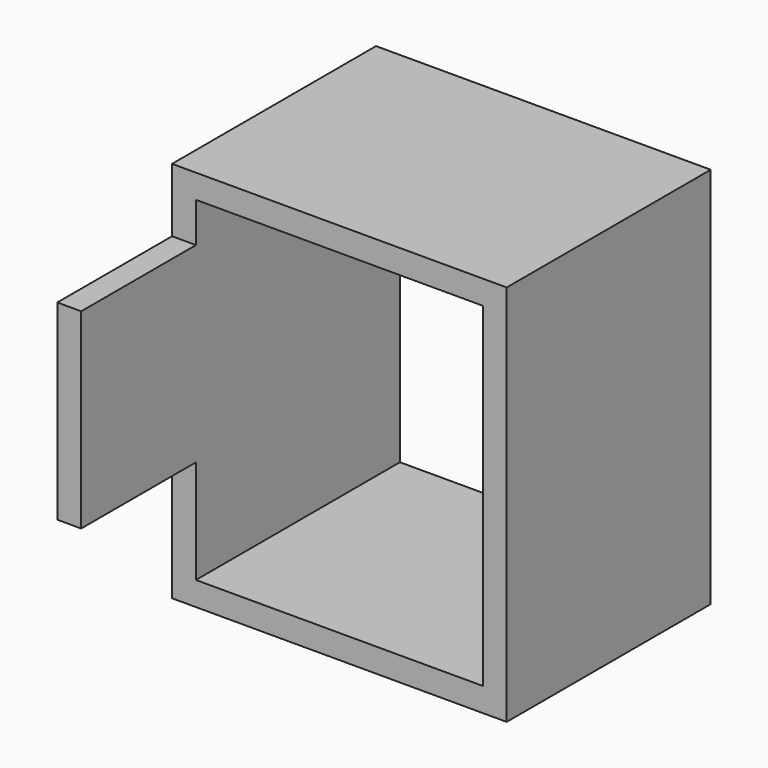
from build123d import *

# Parameters (mm, degrees)
BOX095_W     = 3
BOX095_H     = 32
BOX095_DEPTH = 42
BOX094_W     = 3
BOX094_H     = 32
BOX094_DEPTH = 42
BOX093_W     = 3
BOX093_H     = 32
BOX093_DEPTH = 42
BOX092_W     = 3
BOX092_H     = 32
BOX092_DEPTH = 42
BOX091_W     = 3
BOX091_H     = 18
BOX091_DEPTH = 24


with BuildPart() as box095:
    # Box095 → Box095 (new body)
    with BuildSketch(Plane(origin=(99, 8, 67), x_dir=(1, 0, 0), z_dir=(0, 0, 1))):
        with Locations((1.5, 16)):
            Rectangle(BOX095_W, BOX095_H)
    extrude(amount=BOX095_DEPTH)


with BuildPart() as box094:
    # Box094 → Box094 (new body)
    with BuildSketch(Plane(origin=(141, 8, 109), x_dir=(0, 0, 1), z_dir=(-1, 0, 0))):
        with Locations((1.5, 16)):
            Rectangle(BOX094_W, BOX094_H)
    extrude(amount=BOX094_DEPTH)


with BuildPart() as box093:
    # Box093 → Box093 (new body)
    with BuildSketch(Plane(origin=(138, 8, 67), x_dir=(1, 0, 0), z_dir=(0, 0, 1))):
        with Locations((1.5, 16)):
            Rectangle(BOX093_W, BOX093_H)
    extrude(amount=BOX093_DEPTH)


with BuildPart() as box092:
    # Box092 → Box092 (new body)
    with BuildSketch(Plane(origin=(141, 8, 64), x_dir=(0, 0, 1), z_dir=(-1, 0, 0))):
        with Locations((1.5, 16)):
            Rectangle(BOX092_W, BOX092_H)
    extrude(amount=BOX092_DEPTH)


with BuildPart() as fusion117:
    # Box091 → Box091 (new body)
    with BuildSketch(Plane(origin=(99, -10, 80), x_dir=(1, 0, 0), z_dir=(0, 0, 1))):
        with Locations((1.5, 9)):
            Rectangle(BOX091_W, BOX091_H)
    extrude(amount=BOX091_DEPTH)

    # Fusion117: union Box095, Box094, Box093, Box092
    add(box095.part)
    add(box094.part)
    add(box093.part)
    add(box092.part)


solid = fusion117.part
